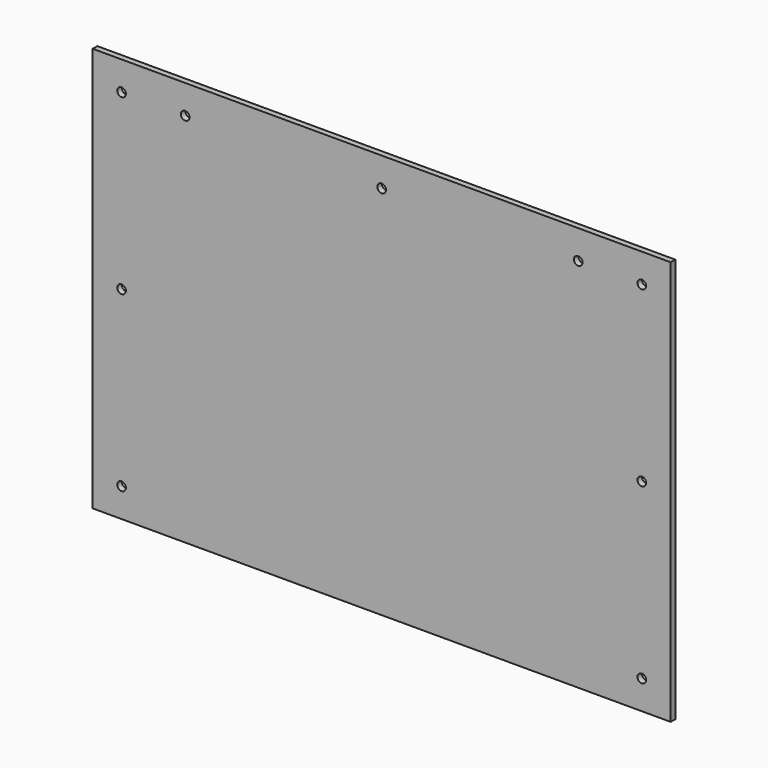
from build123d import *

# Parameters (mm, degrees)
SKETCH051_W     = 2
SKETCH051_H     = 140
PAD031_DEPTH    = 200
SKETCH040_R     = 1.5
POCKET016_DEPTH = 5
SKETCH088_R     = 1.5
POCKET046_DEPTH = 5


with BuildPart() as part:
    # Sketch051 → Pad031 (new body)
    with BuildSketch(Plane.YZ):
        with Locations((1, 70)):
            Rectangle(SKETCH051_W, SKETCH051_H)
    extrude(amount=PAD031_DEPTH)

    # Sketch040 (on Face1 of Pad031) → Pocket016 (cut)
    with BuildSketch(Plane(origin=(0, 0, 0), x_dir=(0, 0, -1), z_dir=(0, -1, 0))):
        with Locations((-130, 190)):
            Circle(SKETCH040_R)
        with Locations((-70, 190)):
            Circle(SKETCH040_R)
        with Locations((-10, 190)):
            Circle(SKETCH040_R)
        with Locations((-10, 10)):
            Circle(SKETCH040_R)
        with Locations((-70, 10)):
            Circle(SKETCH040_R)
        with Locations((-130, 10)):
            Circle(SKETCH040_R)
    extrude(amount=-POCKET016_DEPTH, mode=Mode.SUBTRACT)

    # Sketch088 (on Face1 of Pocket016) → Pocket046 (cut)
    with BuildSketch(Plane(origin=(0, 0, 0), x_dir=(0, 0, -1), z_dir=(0, -1, 0))):
        with Locations((-130, 32)):
            Circle(SKETCH088_R)
        with Locations((-130, 100)):
            Circle(SKETCH088_R)
        with Locations((-130, 168)):
            Circle(SKETCH088_R)
    extrude(amount=-POCKET046_DEPTH, mode=Mode.SUBTRACT)


with BuildPart() as part_1:
    # Body031 placement: moved
    add(part.part.moved(Location((-300, -2.1, -343.2))))


solid = part_1.part
